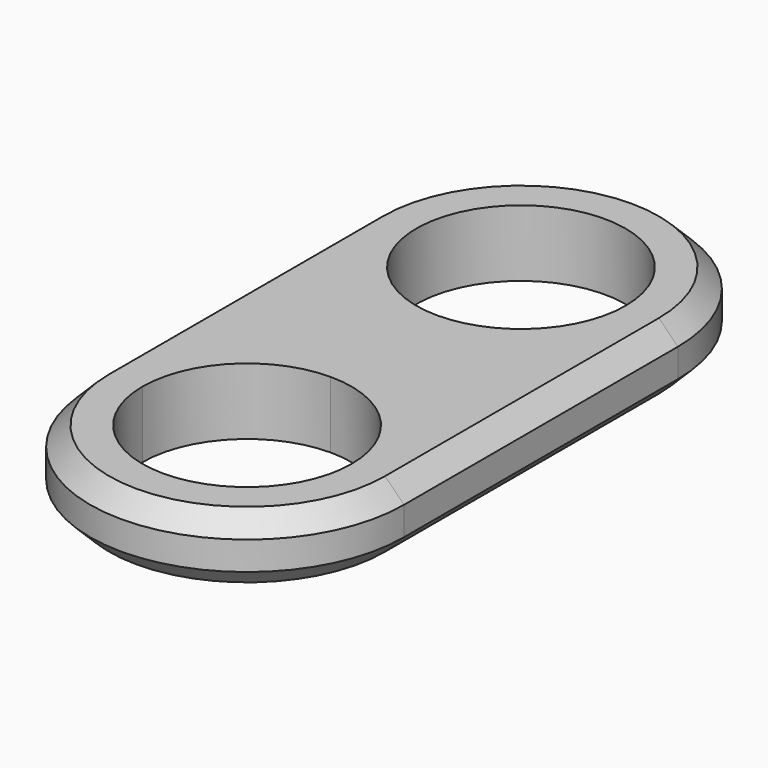
from build123d import *

# Parameters (mm, degrees)
F1_DEPTH = 7
F2_SIZE  = 2


with BuildPart() as f1:
    # F0 (on Top) → F1 (new body)
    with BuildSketch(Plane.XY):
        with BuildLine():
            Line((16.5, 0), (11, 0))
            ThreePointArc((11, 0), (0, -11), (-11, 0))
            Line((-11, 0), (-16.5, 0))
            ThreePointArc((-16.5, 0), (0, -16.5), (16.5, 0))
        make_face()
        with BuildLine():
            ThreePointArc((0, 11), (7.7781745931, 7.7781745931), (11, 0))
            Line((11, 0), (16.5, 0))
            ThreePointArc((16.5, 0), (11.6672618896, 11.6672618896), (0, 16.5))
            Line((0, 16.5), (0, 11))
        make_face()
        with BuildLine():
            ThreePointArc((-11, 0), (-7.7781745931, 7.7781745931), (0, 11))
            Line((0, 11), (0, 16.5))
            ThreePointArc((0, 16.5), (-11.6672618896, 11.6672618896), (-16.5, 0))
            Line((-16.5, 0), (-11, 0))
        make_face()
        with BuildLine():
            ThreePointArc((0, 16.5), (11.6672618896, 11.6672618896), (16.5, 0))
            Line((16.5, 0), (16.5, 36))
            ThreePointArc((16.5, 36), (11.6672618896, 24.3327381104), (0, 19.5))
            Line((0, 19.5), (0, 16.5))
        make_face()
        with BuildLine():
            ThreePointArc((-16.5, 0), (-11.6672618896, 11.6672618896), (0, 16.5))
            Line((0, 16.5), (0, 19.5))
            ThreePointArc((0, 19.5), (-11.6672618896, 24.3327381104), (-16.5, 36))
            Line((-16.5, 36), (-16.5, 0))
        make_face()
        with BuildLine():
            ThreePointArc((0, 19.5), (11.6672618896, 24.3327381104), (16.5, 36))
            ThreePointArc((16.5, 36), (0, 52.5), (-16.5, 36))
            ThreePointArc((-16.5, 36), (-11.6672618896, 24.3327381104), (0, 19.5))
        make_face()
        with BuildLine():
            ThreePointArc((11, 36), (7.7781745931, 28.2218254069), (0, 25))
            ThreePointArc((0, 25), (-7.7781745931, 43.7781745931), (11, 36))
        make_face(mode=Mode.SUBTRACT)
    extrude(amount=F1_DEPTH)

    # F2
    f2_edges = [f1.edges().sort_by_distance(p)[0] for p in [
        (16.5, 18, 0),
        (16.5, 18, 7),
    ]]
    chamfer(f2_edges, length=F2_SIZE)


solid = f1.part
